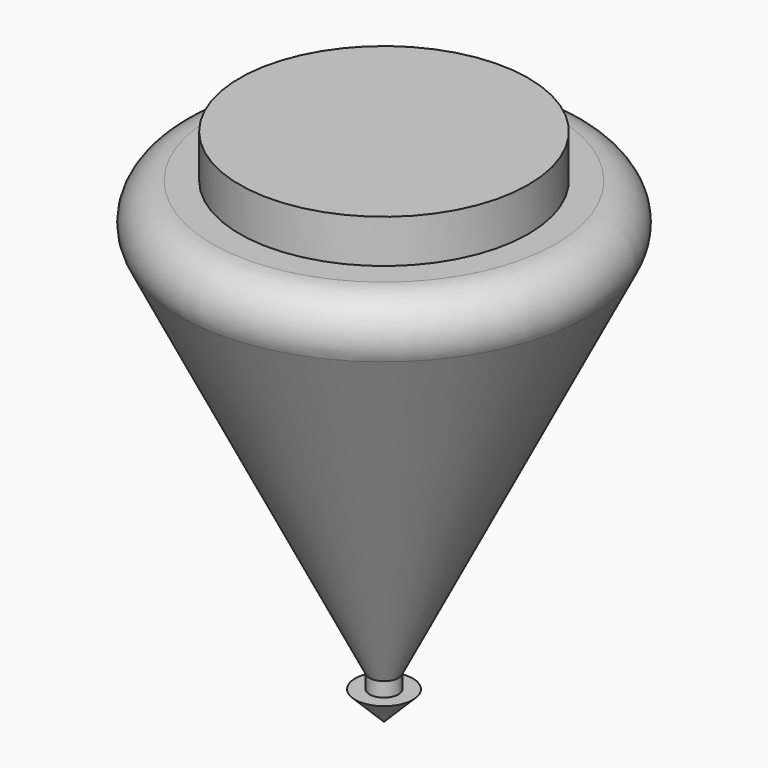
from build123d import *


with BuildPart() as f1:
    # F0 (on Front) → F1 (revolve)
    with BuildSketch(Plane.XZ):
        with BuildLine():
            Line((50, -15), (50, 0))
            Line((50, 0), (0, 0))
            Line((0, 0), (0, -179.9984))
            Line((0, -179.9984), (10, -169.9984))
            Line((10, -169.9984), (5, -169.9984))
            Line((5, -169.9984), (5, -164.9984))
            Line((5, -164.9984), (70.810071, -33.379661))
            ThreePointArc((70.810071, -33.379661), (70.25415, -21.023238), (59.45087, -15))
            Line((59.45087, -15), (50, -15))
        make_face()
    revolve(axis=Axis((0, 0, -89.9992), (0, 0, -1)))


solid = f1.part
